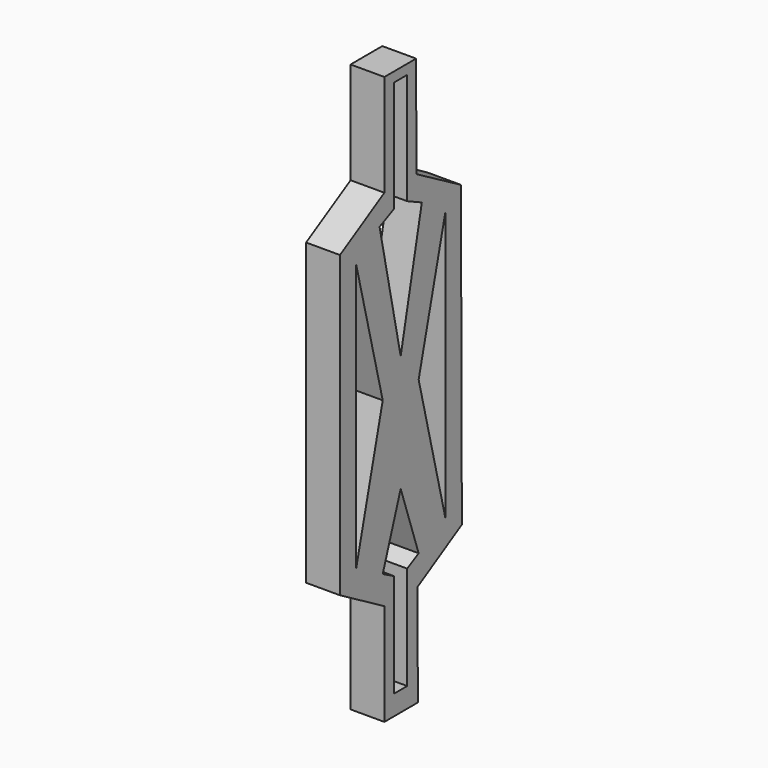
from build123d import *

# Parameters (mm, degrees)
F1_DEPTH = 4
F2_DEPTH = 6


with BuildPart() as f1:
    # F0 (on Right) → F1 (new body)
    with BuildSketch(Plane.YZ):
        Polygon((3.420798, 50.363688), (-3.613221, 50.350249), (-3.613221, 32.27243), (-13.464639, 26.55225), (-13.464639, -26.587166), (-3.613221, -32.290113), (-3.613221, -50.367933), (3.805658, -50.353758), (3.73658, -32.27607), (13.566135, -26.535521), (13.363081, 26.603507), (3.489876, 32.286001), align=None)
        Polygon((-1.448536, -46.818957), (-1.448536, -28.4841), (-3.981812, -27.11692), (0, -15.432488), (3.981812, -27.11692), (1.448536, -28.4841), (1.448536, -46.818957), align=None, mode=Mode.SUBTRACT)
        Polygon((-9.887695, -23.929583), (-9.887695, 23.680427), (-3.981812, 0), align=None, mode=Mode.SUBTRACT)
        Polygon((3.981812, 0), (9.887695, 23.680427), (9.887695, -23.929583), align=None, mode=Mode.SUBTRACT)
        Polygon((-1.448536, 28.89285), (-1.448536, 48.621111), (1.448536, 48.621111), (1.448536, 28.89285), (4.687637, 27.380314), (0, 5.270754), (-4.687637, 27.380314), align=None, mode=Mode.SUBTRACT)
    extrude(amount=F1_DEPTH)

    # F0 (on Right) → F2 (join)
    with BuildSketch(Plane.YZ):
        Polygon((3.420798, 50.363688), (-3.613221, 50.350249), (-3.613221, 32.27243), (-13.464639, 26.55225), (-13.464639, -26.587166), (-3.613221, -32.290113), (-3.613221, -50.367933), (3.805658, -50.353758), (3.73658, -32.27607), (13.566135, -26.535521), (13.363081, 26.603507), (3.489876, 32.286001), align=None)
        Polygon((-1.448536, -46.818957), (-1.448536, -28.4841), (-3.981812, -27.11692), (0, -15.432488), (3.981812, -27.11692), (1.448536, -28.4841), (1.448536, -46.818957), align=None, mode=Mode.SUBTRACT)
        Polygon((-9.887695, -23.929583), (-9.887695, 23.680427), (-3.981812, 0), align=None, mode=Mode.SUBTRACT)
        Polygon((3.981812, 0), (9.887695, 23.680427), (9.887695, -23.929583), align=None, mode=Mode.SUBTRACT)
        Polygon((-1.448536, 28.89285), (-1.448536, 48.621111), (1.448536, 48.621111), (1.448536, 28.89285), (4.687637, 27.380314), (0, 5.270754), (-4.687637, 27.380314), align=None, mode=Mode.SUBTRACT)
    extrude(amount=F2_DEPTH)


solid = f1.part
